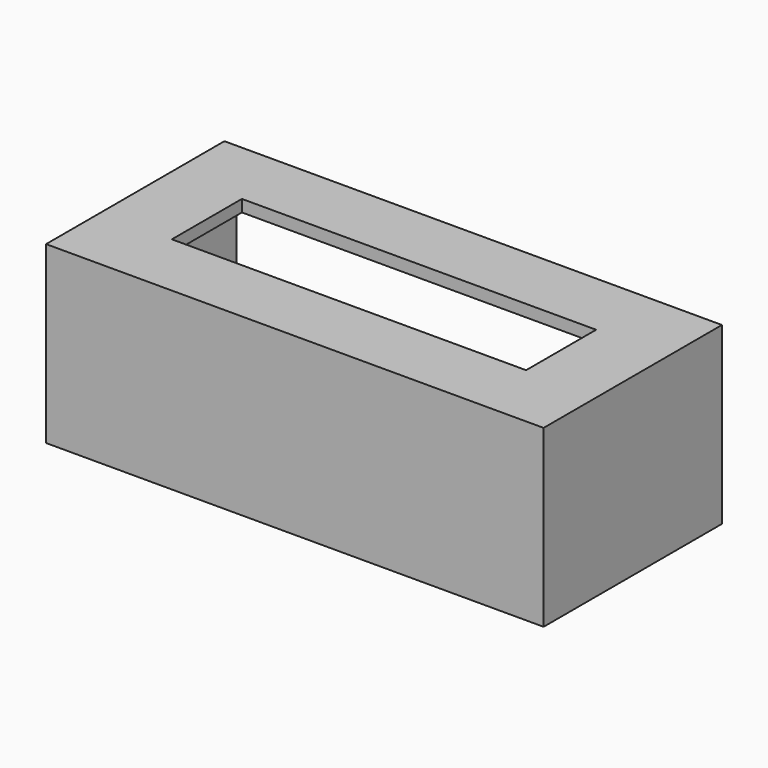
from build123d import *

# Parameters (mm, degrees)
F0_W     = 125
F0_H     = 56
F1_DEPTH = 44
F3_W     = 55
F3_H     = 12
F4_DEPTH = 13
F2_W     = 89
F2_H     = 22
F5_DEPTH = 17
F6_W     = 119
F6_H     = 38
F7_DEPTH = 52


with BuildPart() as f1:
    # F0 (on Top) → F1 (new body)
    with BuildSketch(Plane.XY):
        Rectangle(F0_W, F0_H)
    extrude(amount=-F1_DEPTH)

    # F3 (on face) → F4 (cut)
    with BuildSketch(Plane(origin=(0, 0, -44), x_dir=(1, 0, 0), z_dir=(0, 0, -1))):
        with Locations((0, -15)):
            Rectangle(F3_W, F3_H)
    extrude(amount=-F4_DEPTH, mode=Mode.SUBTRACT)

    # F2 (on face) → F5 (cut)
    with BuildSketch(Plane.XY):
        Rectangle(F2_W, F2_H)
    extrude(amount=-F5_DEPTH, mode=Mode.SUBTRACT)

    # F6 (on face) → F7 (cut)
    with BuildSketch(Plane(origin=(0, 28, 0), x_dir=(-1, 0, 0), z_dir=(0, 1, 0))):
        with Locations((0, -22)):
            Rectangle(F6_W, F6_H)
    extrude(amount=-F7_DEPTH, mode=Mode.SUBTRACT)


solid = f1.part
